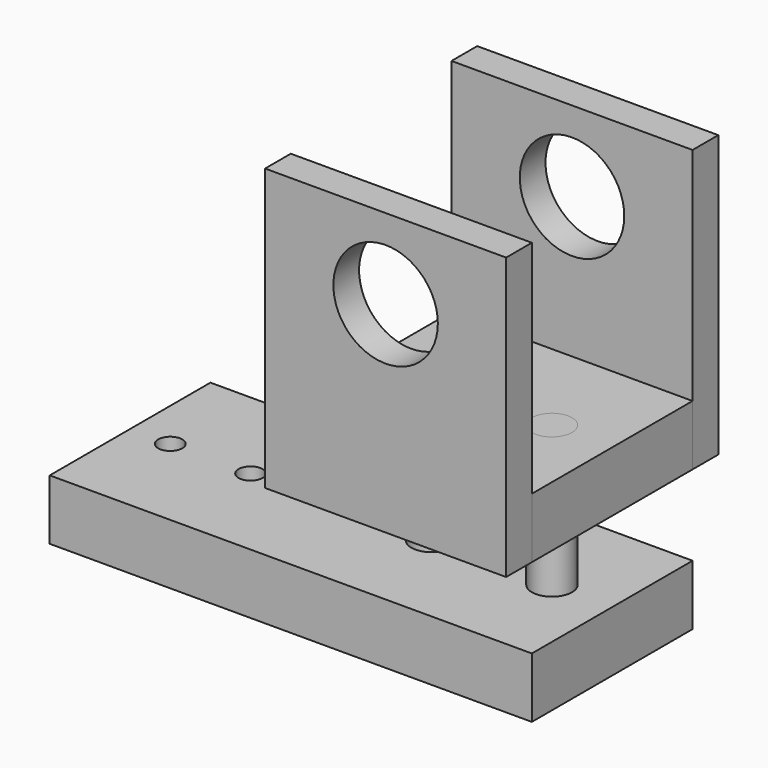
from build123d import *

# Parameters (mm, degrees)
F0_W     = 60
F0_H     = 50
F0_R     = 5
F1_DEPTH = 15
F2_W     = 60
F2_H     = 70
F2_R     = 13
F3_DEPTH = 8
F5_R     = 5
F6_DEPTH = 50
F7_W     = 120
F7_H     = 50
F7_R     = 3
F7_R_2   = 5
F8_DEPTH = 15


with BuildPart() as f1:
    # F0 (on Top) → F1 (new body)
    with BuildSketch(Plane.XY):
        Rectangle(F0_W, F0_H)
        with Locations((-15, 0)):
            Circle(F0_R, mode=Mode.SUBTRACT)
        with Locations((15, 0)):
            Circle(F0_R, mode=Mode.SUBTRACT)
    extrude(amount=F1_DEPTH)


with BuildPart() as f3:
    # F2 (on face) → F3 (new body)
    with BuildSketch(Plane.XZ.offset(25)):
        with Locations((0, 35)):
            Rectangle(F2_W, F2_H)
        with Locations((0, 50)):
            Circle(F2_R, mode=Mode.SUBTRACT)
    extrude(amount=F3_DEPTH)


with BuildPart() as f4_1:
    # F4: copy of F3
    add(f3.part.moved(Location((0, 58, 0))))


with BuildPart() as f6:
    # F5 (on face) → F6 (new body)
    with BuildSketch(Plane.XY.offset(15)):
        with Locations((15, 0)):
            Circle(F5_R)
    extrude(amount=-F6_DEPTH)


with BuildPart() as f6b:
    # F5 (on face) → F6, piece 2 (new body)
    with BuildSketch(Plane.XY.offset(15)):
        with Locations((-15, 0)):
            Circle(F5_R)
    extrude(amount=-F6_DEPTH)


with BuildPart() as f8:
    # F7 (on face) → F8 (new body)
    with BuildSketch(Plane(origin=(0, 0, -35), x_dir=(1, 0, 0), z_dir=(0, 0, -1))):
        Rectangle(F7_W, F7_H)
        with Locations((-50, 0)):
            Circle(F7_R, mode=Mode.SUBTRACT)
        with Locations((-30, 0)):
            Circle(F7_R, mode=Mode.SUBTRACT)
        with Locations((15, 0)):
            Circle(F7_R_2, mode=Mode.SUBTRACT)
        with Locations((45, 0)):
            Circle(F7_R_2, mode=Mode.SUBTRACT)
    extrude(amount=-F8_DEPTH)


with BuildPart() as f8_1:
    # F9: moved
    add(f8.part.moved(Location((-30, 0, 0))))


solid = Compound([f1.part, f3.part, f4_1.part, f6.part, f6b.part, f8_1.part])
